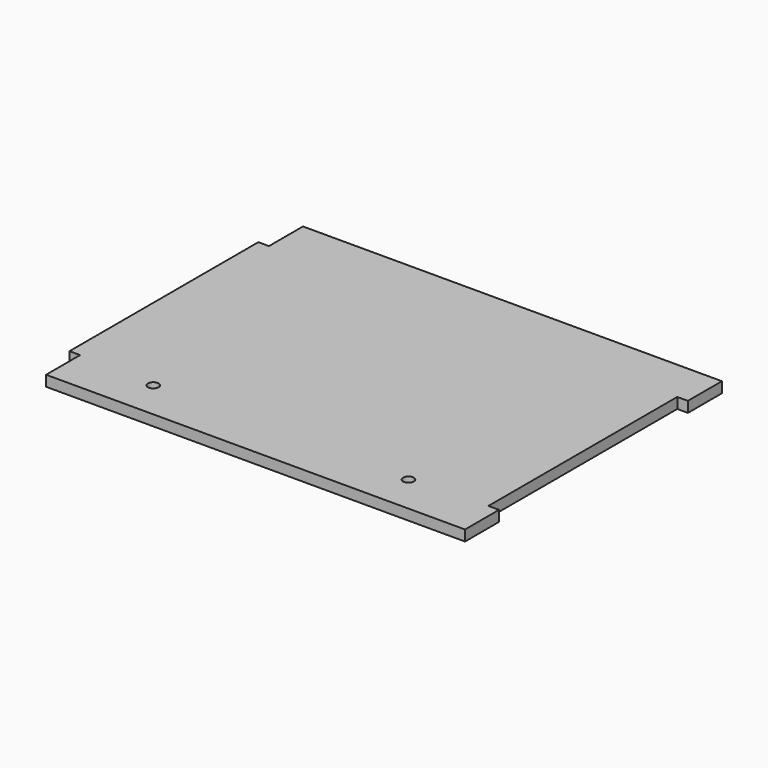
from build123d import *

# Parameters (mm, degrees)
SKETCH_R  = 2.5
PAD_DEPTH = 2.5


with BuildPart() as part:
    # Sketch → Pad (new body, symmetric)
    with BuildSketch(Plane.XY):
        Polygon((98.5, 55.5), (98.5, 75.5), (-98.5, 75.5), (-98.5, 55.5), (-103.5, 55.5), (-103.5, -55.5), (-98.5, -55.5), (-98.5, -75.5), (98.5, -75.5), (98.5, -55.5), (93.5, -55.5), (93.5, 55.5), align=None)
        with Locations((57.5, -57.5)):
            Circle(SKETCH_R, mode=Mode.SUBTRACT)
        with Locations((-62.5, -57.5)):
            Circle(SKETCH_R, mode=Mode.SUBTRACT)
    extrude(amount=PAD_DEPTH, both=True)


solid = part.part
